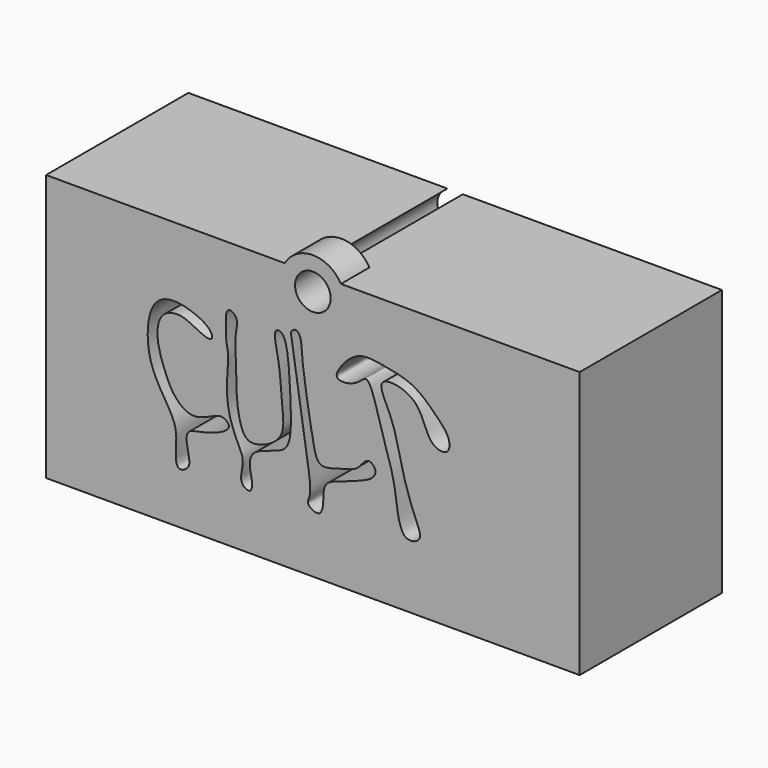
from build123d import *

# Parameters (mm, degrees)
F0_W      = 38.1
F0_H      = 19.05
F1_DEPTH  = 12.7
F3_DEPTH  = 25.4
F5_DEPTH  = 25.4
F7_DEPTH  = 25.4
F9_DEPTH  = 25.4
F11_DEPTH = 2.54
F12_R     = 1.27
F13_DEPTH = 25.4


with BuildPart() as f1:
    # F0 (on Front) → F1 (new body)
    with BuildSketch(Plane.XZ):
        Rectangle(F0_W, F0_H)
    extrude(amount=F1_DEPTH)

    # F2 (on face) → F3 (cut)
    with BuildSketch(Plane.XZ.offset(12.7)):
        with BuildLine():
            add(Edge.make_bspline(
                [(-7.3081688024, 3.5164835863), (-7.6425369621, 3.9811097627), (-9.6297368843, 4.8513440407), (-11.8354296133, 4.2073655882), (-12.0105658515, -0.3004450693), (-9.4420255012, -2.9535091689), (-9.9012415864, -5.1359777295), (-9.6007820073, -6.0513449412), (-8.6939884759, -5.5541816432), (-8.9088497936, -4.6353549454), (-9.1483256828, -3.3022560418), (-8.2817777369, -3.0695944292), (-7.1428605083, -2.8857260521), (-5.6499727871, -2.1527437102), (-6.4271432942, -1.4865872242), (-7.1329959037, -1.7236451191), (-8.5811690725, -2.4831421568), (-9.9211864719, -1.5074120798), (-10.6092161324, -0.012867962), (-11.2710547055, 1.9720941057), (-10.8721239999, 3.6573029683), (-9.3865090056, 3.9571423702), (-8.2976263756, 3.2936874722), (-7.1462914229, 2.8235037884), (-7.1615779, 3.3127860496), (-7.3081688024, 3.5164835863)],
                knots=[0, 0, 0, 0, 0.0585188385, 0.1092959692, 0.1822265234, 0.2525924125, 0.3054111082, 0.3354907978, 0.3659739698, 0.4014307792, 0.4419365506, 0.4724197202, 0.5148809906, 0.5569965717, 0.5855024021, 0.6170849317, 0.6624454743, 0.706710571, 0.7545451222, 0.8082922925, 0.8536528289, 0.8948488286, 0.9382994226, 0.9743446584, 1, 1, 1, 1], degree=3))
        make_face()
    extrude(amount=-F3_DEPTH, mode=Mode.SUBTRACT)

    # F4 (on face) → F5 (cut)
    with BuildSketch(Plane.XZ.offset(12.7)):
        with BuildLine():
            add(Edge.make_bspline(
                [(-5.3709773347, -2.8332981747), (-5.1714127738, -3.247990518), (-4.8125842925, -3.8747108391), (-5.3714589459, -5.3207491748), (-4.3518215332, -5.8144948752), (-4.3147351187, -4.8656840288), (-4.5660423376, -4.0395121674), (-4.3992375307, -2.9381258063), (-2.5821339001, -2.5120423021), (-1.4612753714, -1.9162553792), (-1.6016216447, 1.5394039275), (-1.8284608448, 5.2179642676), (-2.9295185692, 5.1672562109), (-2.3238087063, 3.0880058222), (-2.2491003525, 0.5700010089), (-1.8692908505, -1.7707992082), (-4.4795833267, -2.8665962834), (-5.1740771019, -1.8565722289), (-5.5060784239, 0.0355546621), (-5.4335713758, 2.2109427207), (-5.6224328777, 3.8075804598), (-5.2359150152, 4.978307755), (-6.2019135467, 5.5508740344), (-6.2246584502, 4.2744908509), (-6.2018974745, 3.1440121543), (-5.9342319919, 2.4191097852), (-6.3743896967, -0.4938484524), (-5.6626506987, -2.2272050372), (-5.3709773347, -2.8332981747)],
                knots=[0, 0, 0, 0, 0.0344538756, 0.0708916251, 0.09627302, 0.1220471238, 0.1527392808, 0.1830596861, 0.2245272133, 0.2571908264, 0.3161452982, 0.3750189364, 0.3955945039, 0.4378571592, 0.4908510619, 0.5366846215, 0.5834198887, 0.6140498695, 0.6577901157, 0.705157371, 0.7456198414, 0.7788023945, 0.8036948607, 0.8345510133, 0.8690000186, 0.8962478937, 0.9496439761, 1, 1, 1, 1], degree=3))
        make_face()
    extrude(amount=-F5_DEPTH, mode=Mode.SUBTRACT)

    # F6 (on face) → F7 (cut)
    with BuildSketch(Plane.XZ.offset(12.7)):
        with BuildLine():
            add(Edge.make_bspline(
                [(-1.5252156882, 5.0141466781), (-1.357626333, 4.0776266224), (-0.5423633388, -1.6984242884), (-0.0203767636, -4.3745750943), (-0.5470999328, -5.1338102258), (0.5735766672, -5.679976027), (0.7662297795, -4.6881988144), (0.7277357461, -4.0846754928), (0.8818566831, -3.2579536819), (1.9304318954, -2.9250816798), (3.2093169386, -2.477521958), (4.296584443, -2.0345856537), (4.5980318174, -1.3500769665), (3.9769504253, -0.7751952806), (3.4910337043, -1.3247116557), (3.0738862594, -1.845048411), (1.8767223926, -2.1131382031), (0.3538884391, -2.6232955779), (-0.0495815116, -0.7893466474), (-0.8487177049, 3.9895641397), (-0.7904840489, 5.1624546355), (-1.1795505442, 5.6991998326), (-1.6079424902, 5.3921899998), (-1.5658841703, 5.2414096154), (-1.5252156882, 5.0141466781)],
                knots=[0, 0, 0, 0, 0.109663614, 0.1820150792, 0.2147727576, 0.2525625671, 0.2891067594, 0.3239648827, 0.3597378621, 0.4022793426, 0.453032228, 0.4984097415, 0.5311492128, 0.5639432419, 0.5963870662, 0.6307514995, 0.6780746977, 0.7259961098, 0.7783505036, 0.873260873, 0.9195163048, 0.9482123115, 0.97338821, 1, 1, 1, 1], degree=3))
        make_face()
    extrude(amount=-F7_DEPTH, mode=Mode.SUBTRACT)

    # F8 (on face) → F9 (cut)
    with BuildSketch(Plane.XZ.offset(12.7)):
        with BuildLine():
            add(Edge.make_bspline(
                [(6.6359001212, -4.8988531344), (6.9488418308, -5.1000942589), (7.9490844078, -4.7965815461), (7.240921474, -3.3891399269), (6.2821171576, -0.6730667662), (5.854712474, 2.1542642475), (4.1384203955, 4.8002702077), (7.7825918325, 4.3097933626), (8.0687695081, 1.5111717625), (9.6836502043, 1.1568220441), (9.8968937383, 2.3701392267), (8.634424829, 3.633859312), (7.215282243, 4.9977314048), (5.0481060244, 5.3849990817), (3.3169254739, 5.6817207531), (2.0962030289, 4.5833915551), (1.3552589288, 3.2814940129), (3.1553061861, 3.4383548013), (4.0197601186, 4.7948314429), (4.9060740411, 0.9160346011), (5.9699751273, -1.5624424349), (6.0803073536, -4.5415721779), (6.6359001212, -4.8988531344)],
                knots=[0, 0, 0, 0, 0.0361309096, 0.076526506, 0.1396718843, 0.2053747997, 0.2576651331, 0.3123314454, 0.3715056394, 0.4097094305, 0.4431428333, 0.491410869, 0.5432660068, 0.5972943327, 0.6446343353, 0.6914242401, 0.7274241556, 0.7690517794, 0.8045816068, 0.8675923257, 0.9358536385, 1, 1, 1, 1], degree=3))
        make_face()
    extrude(amount=-F9_DEPTH, mode=Mode.SUBTRACT)

    # F10 (on face) → F11 (join)
    with BuildSketch(Plane.XZ.offset(12.7)):
        with BuildLine():
            Line((-2.0041691096, 9.525), (2.0041691096, 9.525))
            ThreePointArc((2.0041691096, 9.525), (0, 10.6878546131), (-2.0041691096, 9.525))
        make_face()
    extrude(amount=-F11_DEPTH)

    # F12 (on face) → F13 (cut)
    with BuildSketch(Plane.XZ.offset(12.7)):
        with Locations((0, 8.3793438971)):
            Circle(F12_R)
    extrude(amount=-F13_DEPTH, mode=Mode.SUBTRACT)


solid = f1.part
